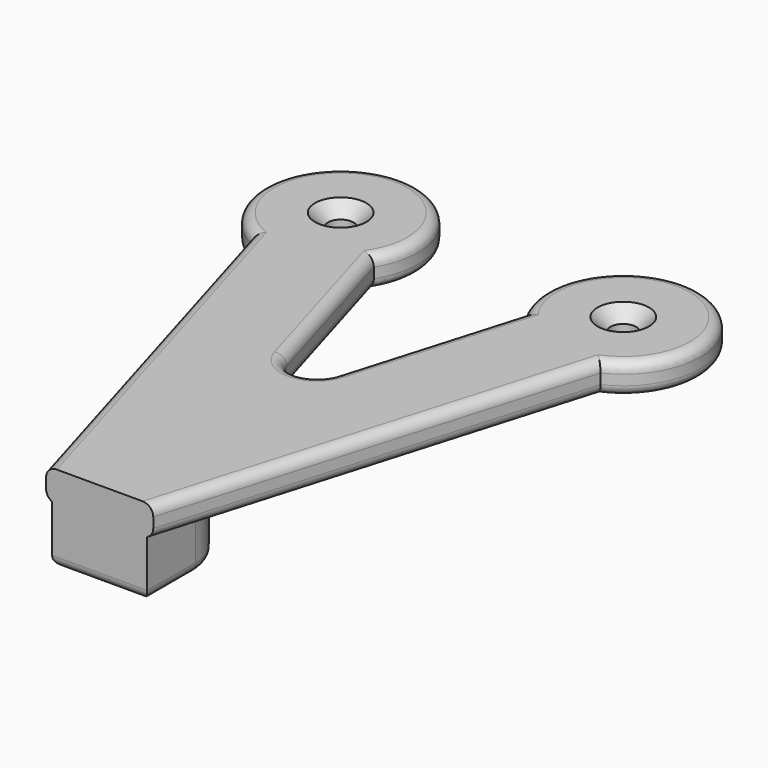
from build123d import *

# Parameters (mm, degrees)
F1_DEPTH       = 6
F3_DEPTH       = 11
F5_D           = 5
F5_CSINK_D     = 10
F5_CSINK_ANGLE = 90
F6_R           = 6
F7_DEPTH       = 2
F8_R           = 2
F9_R           = 4
F10_DEPTH      = 11


with BuildPart() as f1:
    # F0 (on Top) → F1 (new body)
    with BuildSketch(Plane.XY):
        with BuildLine():
            Line((-10.428029, 0), (0, 0))
            Line((0, 0), (10.428029, 0))
            Line((10.428029, 0), (33.919224, 79.442952))
            ThreePointArc((33.919224, 79.442952), (31.753425, 107.38431), (14.740144, 85.114185))
            Line((14.740144, 85.114185), (4.79477, 51.480738))
            ThreePointArc((4.79477, 51.480738), (0, 47.898546), (-4.79477, 51.480738))
            Line((-4.79477, 51.480738), (-14.740144, 85.114185))
            ThreePointArc((-14.740144, 85.114185), (-31.753425, 107.38431), (-33.919224, 79.442952))
            Line((-33.919224, 79.442952), (-10.428029, 0))
        make_face()
    extrude(amount=F1_DEPTH)

    # F2 (on face) → F3 (join)
    with BuildSketch(Plane(origin=(0, 0, 0), x_dir=(1, 0, 0), z_dir=(0, 0, -1))):
        with BuildLine():
            Line((9.25, 0), (0, 0))
            Line((0, 0), (-9.25, 0))
            Line((-9.25, 0), (-9.25, -11.75))
            ThreePointArc((-9.25, -11.75), (-6.540738, -18.290738), (0, -21))
            ThreePointArc((0, -21), (6.540738, -18.290738), (9.25, -11.75))
            Line((9.25, -11.75), (9.25, 0))
        make_face()
    extrude(amount=F3_DEPTH)

    # F5 (through all)
    with Locations(Plane.XY.offset(6)):
        with Locations((27.5, 93), (-27.5, 93)):
            CounterSinkHole(F5_D / 2, F5_CSINK_D / 2, counter_sink_angle=F5_CSINK_ANGLE)

    # F6 (on face) → F7 (cut)
    with BuildSketch(Plane(origin=(0, 0, 0), x_dir=(1, 0, 0), z_dir=(0, 0, -1))):
        with Locations((27.5, -93)):
            Circle(F6_R)
        with Locations((-27.5, -93)):
            Circle(F6_R)
    extrude(amount=-F7_DEPTH, mode=Mode.SUBTRACT)

    # F8
    f8_edges = [f1.edges().sort_by_distance(p)[0] for p in [
        (22.173627, 39.721476, 0),
        (31.753425, 107.38431, 0),
        (9.767457, 68.297461, 6),
        (0, 47.898546, 0),
        (-9.767457, 68.297461, 0),
        (-31.753425, 107.38431, 0),
        (-22.173627, 39.721476, 0),
        (-9.25, 5.875, -11),
        (0, 0, -11),
        (-31.753425, 107.38431, 6),
        (-22.173627, 39.721476, 6),
        (22.173627, 39.721476, 6),
        (31.753425, 107.38431, 6),
    ]]
    fillet(f8_edges, radius=F8_R)

    # F9 (on face) → F10 (cut)
    with BuildSketch(Plane(origin=(0, 0, -11), x_dir=(1, 0, 0), z_dir=(0, 0, -1))):
        with Locations((0, -11.75)):
            Circle(F9_R)
    extrude(amount=-F10_DEPTH, mode=Mode.SUBTRACT)


solid = f1.part
